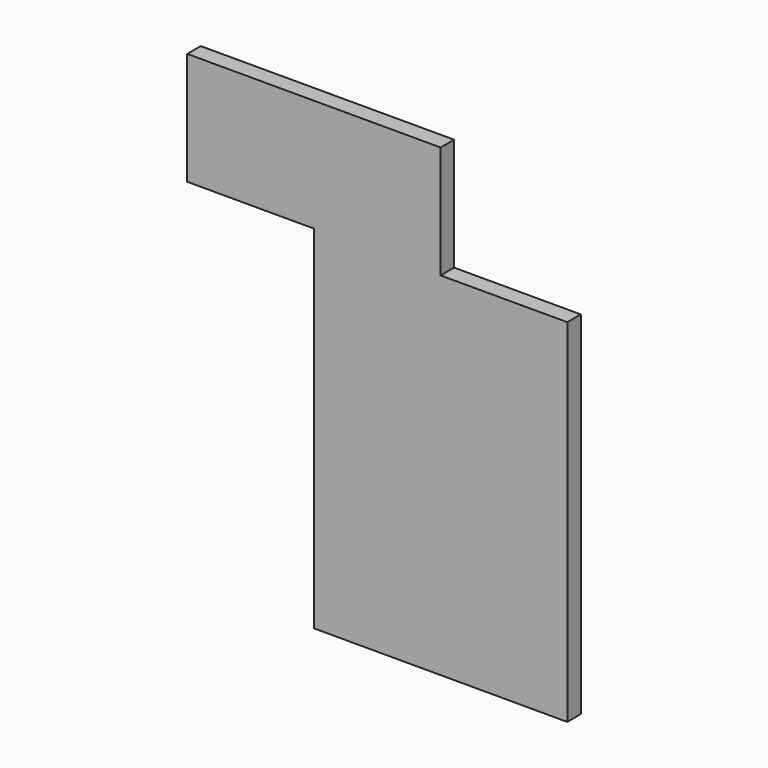
from build123d import *

# Parameters (mm, degrees)
F0_W     = 180
F0_H     = 250
F1_DEPTH = 12
F2_W     = 180
F2_H     = 80
F3_DEPTH = 12


with BuildPart() as f1:
    # F0 (on Front) → F1 (new body)
    with BuildSketch(Plane.XZ):
        with Locations((32.637028, -69.309338)):
            Rectangle(F0_W, F0_H)
    extrude(amount=-F1_DEPTH)

    # F2 (on face) → F3 (join)
    with BuildSketch(Plane.XZ):
        with Locations((-57.362972, 95.690662)):
            Rectangle(F2_W, F2_H)
    extrude(amount=-F3_DEPTH)


solid = f1.part
